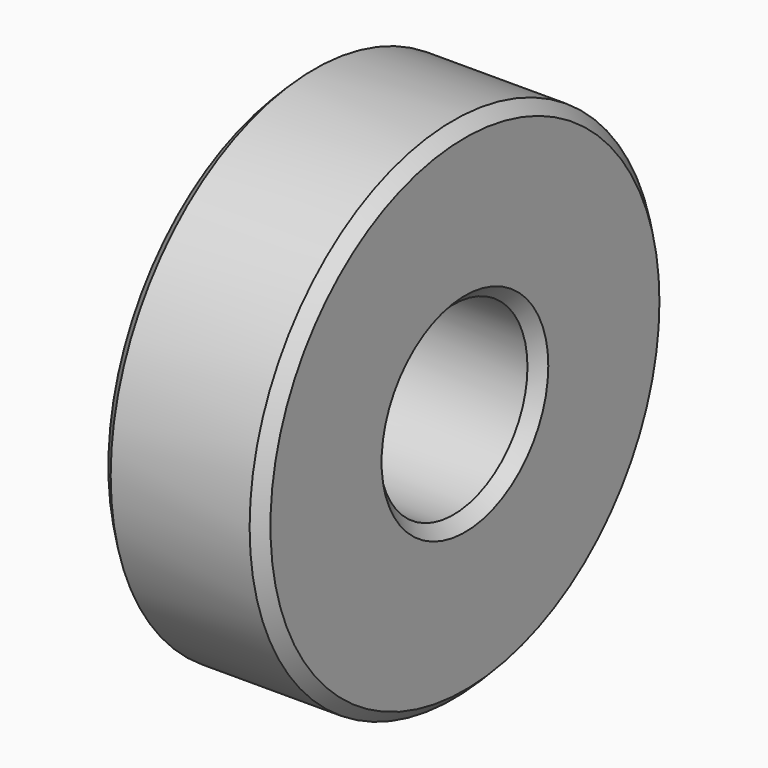
from build123d import *

# Parameters (mm, degrees)
F0_R     = 11
F0_R_2   = 4
F1_DEPTH = 7
F2_SIZE  = 0.5


with BuildPart() as f1:
    # F0 (on Right) → F1 (new body)
    with BuildSketch(Plane.YZ):
        Circle(F0_R)
        Circle(F0_R_2, mode=Mode.SUBTRACT)
    extrude(amount=F1_DEPTH)

    # F2
    f2_edges = [f1.edges().sort_by_distance(p)[0] for p in [
        (7, -11, 0),
        (7, -4, 0),
        (0, -11, 0),
        (0, -4, 0),
    ]]
    chamfer(f2_edges, length=F2_SIZE)


solid = f1.part
